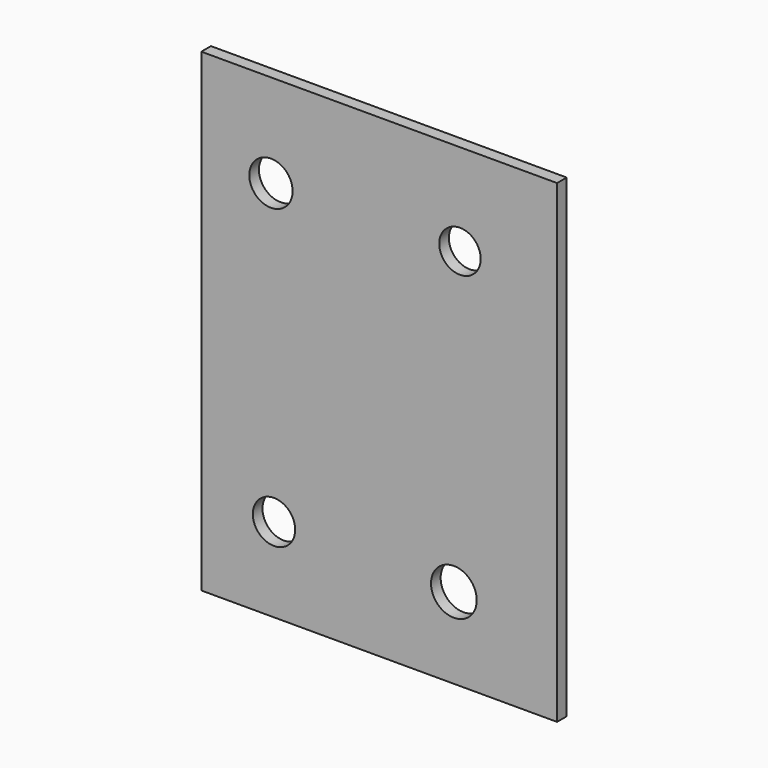
from build123d import *

# Parameters (mm, degrees)
F0_W     = 30
F0_H     = 40
F0_R     = 1.785598
F0_R_2   = 1.927953
F0_R_3   = 1.826757
F0_R_4   = 1.748198
F1_DEPTH = 1.016


with BuildPart() as f1:
    # F0 (on Front) → F1 (new body)
    with BuildSketch(Plane.XZ):
        Rectangle(F0_W, F0_H)
        with Locations((-8.868579, -12.917277)):
            Circle(F0_R, mode=Mode.SUBTRACT)
        with Locations((6.297976, -13.174337)):
            Circle(F0_R_2, mode=Mode.SUBTRACT)
        with Locations((-9.125639, 12.146097)):
            Circle(F0_R_3, mode=Mode.SUBTRACT)
        with Locations((6.812097, 12.274627)):
            Circle(F0_R_4, mode=Mode.SUBTRACT)
    extrude(amount=F1_DEPTH)


solid = f1.part
